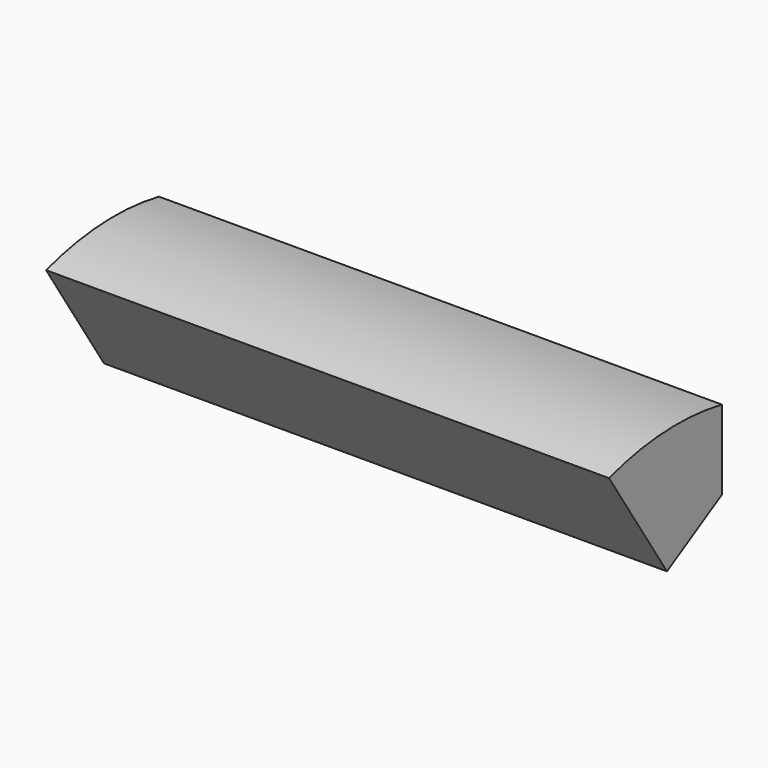
from build123d import *

# Parameters (mm, degrees)
F1_DEPTH = 112.7125


with BuildPart() as f1:
    # F0 (on Right) → F1 (new body, symmetric)
    with BuildSketch(Plane.YZ):
        with BuildLine():
            Line((-27.496307, -15.875), (0, 0))
            Line((0, 0), (0, 31.75))
            ThreePointArc((0, 31.75), (-28.436803, 33.820737), (-56.501375, 28.788888))
            Line((-56.501375, 28.788888), (-27.496307, -15.875))
        make_face()
    extrude(amount=F1_DEPTH, both=True)


solid = f1.part
